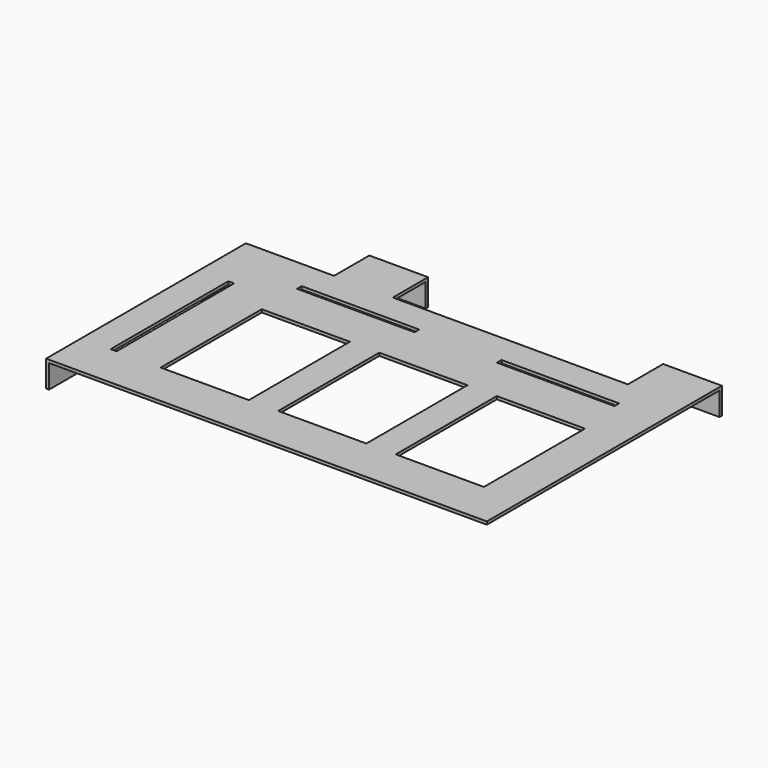
from build123d import *

# Parameters (mm, degrees)
F0_W     = 150
F0_H     = 100
F1_DEPTH = 1
F2_W     = 30
F2_H     = 15
F2_W_2   = 80
F3_DEPTH = 1.001
F4_W     = 1
F4_H     = 20
F4_W_2   = 20
F4_H_2   = 1
F5_DEPTH = 8
F6_W     = 2
F6_H     = 50
F6_W_2   = 40
F6_H_2   = 2
F6_W_3   = 30
F6_H_3   = 43
F7_DEPTH = 9.001


with BuildPart() as f1:
    # F0 (on Top) → F1 (new body)
    with BuildSketch(Plane.XY):
        Rectangle(F0_W, F0_H)
    extrude(amount=F1_DEPTH)

    # F2 (on face) → F3 (cut, through all)
    with BuildSketch(Plane.XY.offset(1)):
        with Locations((-60, 42.5)):
            Rectangle(F2_W, F2_H)
        with Locations((15, 42.5)):
            Rectangle(F2_W_2, F2_H)
    extrude(amount=-F3_DEPTH, mode=Mode.SUBTRACT)

    # F4 (on face) → F5 (join)
    with BuildSketch(Plane(origin=(0, 0, 0), x_dir=(1, 0, 0), z_dir=(0, 0, -1))):
        with Locations((-74.5, -25)):
            Rectangle(F4_W, F4_H)
        with Locations((-35, -49.5)):
            Rectangle(F4_W_2, F4_H_2)
        with Locations((65, -49.5)):
            Rectangle(F4_W_2, F4_H_2)
        with Locations((-74.5, 40)):
            Rectangle(F4_W, F4_H)
    extrude(amount=F5_DEPTH)

    # F6 (on face) → F7 (cut, through all)
    with BuildSketch(Plane.XY.offset(1)):
        with Locations((-64, -10)):
            Rectangle(F6_W, F6_H)
        with Locations((-28, 24)):
            Rectangle(F6_W_2, F6_H_2)
        with Locations((40, 24)):
            Rectangle(F6_W_2, F6_H_2)
        with Locations((-33, -13.5)):
            Rectangle(F6_W_3, F6_H_3)
        with Locations((7, -13.5)):
            Rectangle(F6_W_3, F6_H_3)
        with Locations((47, -13.5)):
            Rectangle(F6_W_3, F6_H_3)
    extrude(amount=-F7_DEPTH, mode=Mode.SUBTRACT)


solid = f1.part
